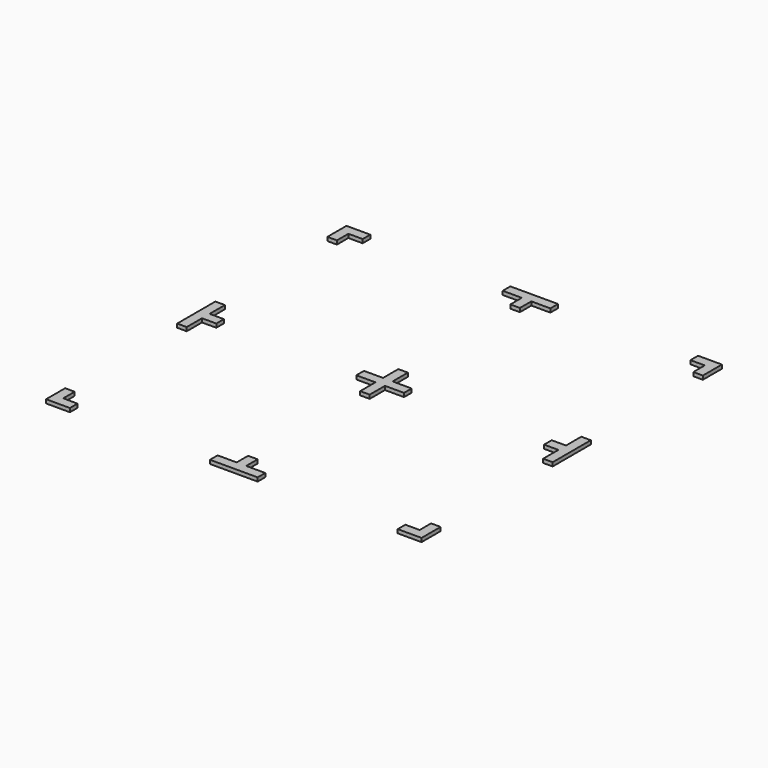
from build123d import *

# Parameters (mm, degrees)
F1_DEPTH = 10


with BuildPart() as f1:
    # F0 (on Top) → F1 (new body)
    with BuildSketch(Plane.XY):
        Polygon((-436.5, 500), (-500, 500), (-500, 436.5), (-474.6, 436.5), (-474.6, 474.6), (-436.5, 474.6), align=None)
        Polygon((-500, -436.5), (-500, -500), (-436.5, -500), (-436.5, -474.6), (-474.6, -474.6), (-474.6, -436.5), align=None)
        Polygon((500, 436.5), (500, 500), (436.5, 500), (436.5, 474.6), (474.6, 474.6), (474.6, 436.5), align=None)
        Polygon((63.5, -12.7), (63.5, 12.7), (12.7, 12.7), (12.7, 63.5), (-12.7, 63.5), (-12.7, 12.7), (-63.5, 12.7), (-63.5, -12.7), (-12.7, -12.7), (-12.7, -63.5), (12.7, -63.5), (12.7, -12.7), align=None)
        Polygon((-63.5, 474.6), (-12.7, 474.6), (-12.7, 436.5), (12.7, 436.5), (12.7, 474.6), (63.5, 474.6), (63.5, 500), (-63.5, 500), align=None)
        Polygon((-500, 63.5), (-500, -63.5), (-474.6, -63.5), (-474.6, -12.7), (-436.5, -12.7), (-436.5, 12.7), (-474.6, 12.7), (-474.6, 63.5), align=None)
        Polygon((474.6, -63.5), (500, -63.5), (500, 63.5), (474.6, 63.5), (474.6, 12.7), (436.5, 12.7), (436.5, -12.7), (474.6, -12.7), align=None)
        Polygon((12.7, -474.6), (12.7, -436.5), (-12.7, -436.5), (-12.7, -474.6), (-63.5, -474.6), (-63.5, -500), (63.5, -500), (63.5, -474.6), align=None)
        Polygon((474.6, -474.6), (436.5, -474.6), (436.5, -500), (500, -500), (500, -436.5), (474.6, -436.5), align=None)
    extrude(amount=F1_DEPTH)


solid = f1.part
